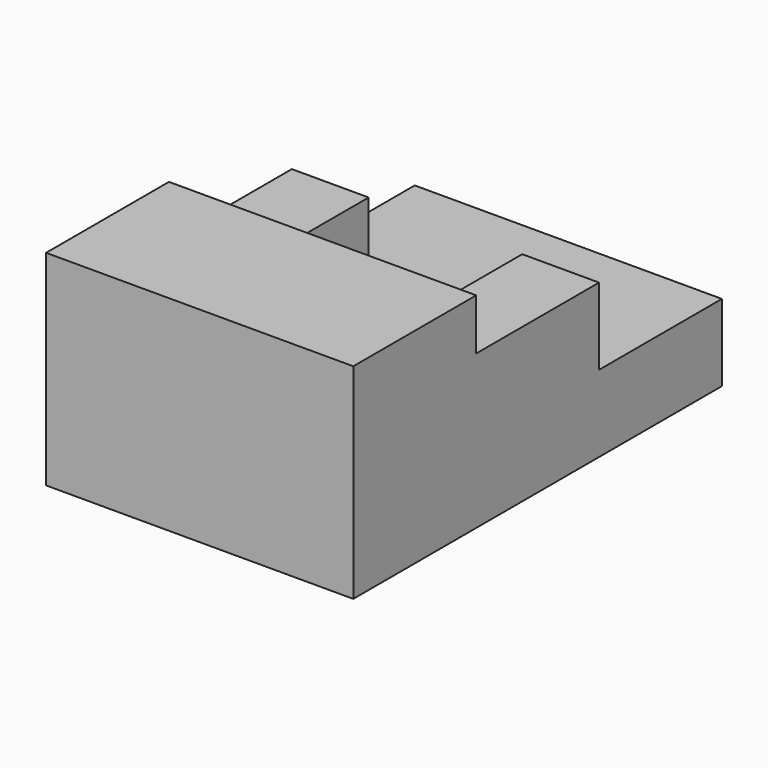
from build123d import *

# Parameters (mm, degrees)
F0_W     = 38.1
F0_H     = 57.15
F1_DEPTH = 25.4
F3_DEPTH = 38.101
F4_W     = 19.05
F4_H     = 19.05
F5_DEPTH = 9.525


with BuildPart() as f1:
    # F0 (on Top) → F1 (new body)
    with BuildSketch(Plane.XY):
        with Locations((19.05, 28.575)):
            Rectangle(F0_W, F0_H)
    extrude(amount=F1_DEPTH)

    # F2 (on face) → F3 (cut, through all)
    with BuildSketch(Plane.YZ.offset(38.1)):
        Polygon((57.15, 25.4), (19.05, 25.4), (19.05, 19.05), (38.1, 19.05), (38.1, 9.525), (57.15, 9.525), align=None)
    extrude(amount=-F3_DEPTH, mode=Mode.SUBTRACT)

    # F4 (on face) → F5 (cut)
    with BuildSketch(Plane.XY.offset(19.05)):
        with Locations((19.05, 28.575)):
            Rectangle(F4_W, F4_H)
    extrude(amount=-F5_DEPTH, mode=Mode.SUBTRACT)


solid = f1.part
